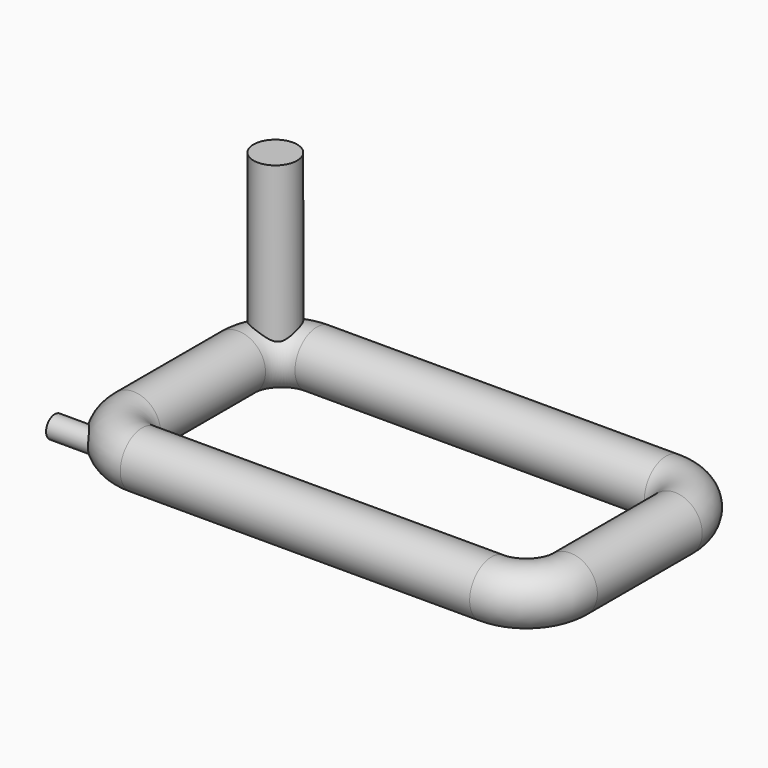
from build123d import *

# Parameters (mm, degrees)
F0_R     = 31.75
F3_R     = 12.7
F4_DEPTH = 304.8
F5_R     = 25.4
F6_DEPTH = 203.2


with BuildPart() as f2:
    # F2: sweep along a path in F1
    with BuildLine(Plane.XY) as f2_path:
        ThreePointArc((-203.2, 127), (-239.121024, 112.121024), (-254, 76.2))
        Line((-254, 76.2), (-254, -76.2))
        ThreePointArc((-254, -76.2), (-239.121024, -112.121024), (-203.2, -127))
        Line((-203.2, -127), (203.2, -127))
        ThreePointArc((203.2, -127), (239.121024, -112.121024), (254, -76.2))
        Line((254, -76.2), (254, 76.2))
        ThreePointArc((254, 76.2), (239.121024, 112.121024), (203.2, 127))
        Line((203.2, 127), (-203.2, 127))
    # F0 (on Front) → F2 (sweep)
    with BuildSketch(Plane.XZ):
        with Locations((-254, 0)):
            Circle(F0_R)
    sweep(path=f2_path.line)

    # F3 (on Right) → F4 (join)
    with BuildSketch(Plane.YZ):
        with Locations((-127, 0)):
            Circle(F3_R)
    extrude(amount=-F4_DEPTH)

    # F5 (on Top) → F6 (join)
    with BuildSketch(Plane.XY):
        with Locations((-241.3, 114.3)):
            Circle(F5_R)
    extrude(amount=F6_DEPTH)


solid = f2.part
